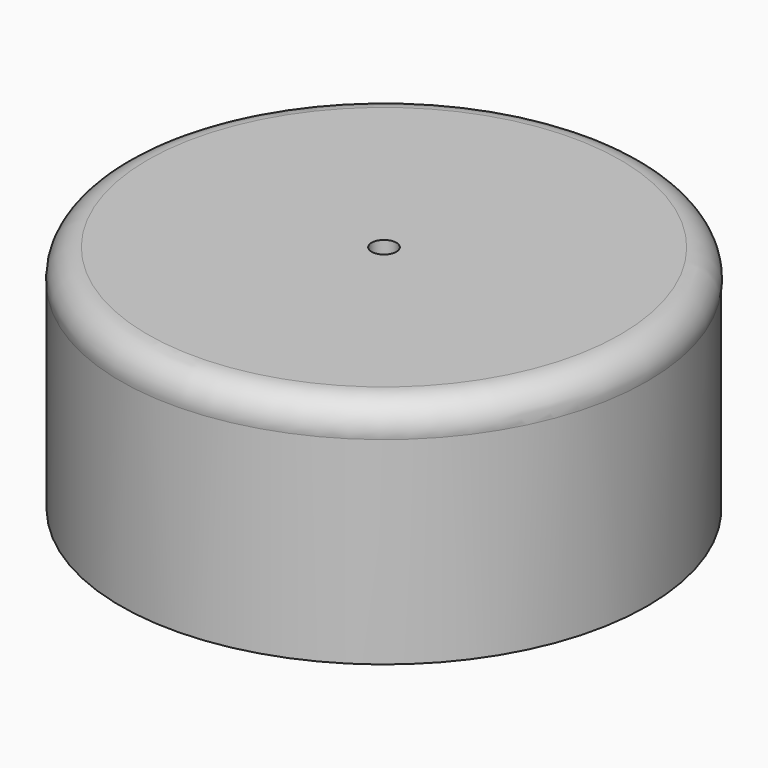
from build123d import *

# Parameters (mm, degrees)
F2_R     = 3.175
F3_DEPTH = 25.4


with BuildPart() as f1:
    # F0 (on Front) → F1 (revolve)
    with BuildSketch(Plane.XZ):
        with BuildLine():
            Line((-71.568562, 56.310103), (-71.568562, 43.610103))
            Line((-71.568562, 43.610103), (-20.768562, 43.610103))
            ThreePointArc((-20.768562, 43.610103), (-17.985365, 42.542987), (-16.629005, 39.888706))
            Line((-16.629005, 39.888706), (-16.629005, -2.770737))
            Line((-16.629005, -2.770737), (-3.929005, -2.770737))
            Line((-3.929005, -2.770737), (-3.929005, 48.029263))
            ThreePointArc((-3.929005, 48.029263), (-5.481125, 53.790795), (-10.890138, 56.310103))
            Line((-10.890138, 56.310103), (-71.568562, 56.310103))
        make_face()
    revolve(axis=Axis((-71.568562, 0, 49.960103), (0, 0, 1)))

    # F2 (on face) → F3 (cut)
    with BuildSketch(Plane.XY.offset(56.310103)):
        with Locations((-71.568562, 0)):
            Circle(F2_R)
    extrude(amount=-F3_DEPTH, mode=Mode.SUBTRACT)


solid = f1.part
